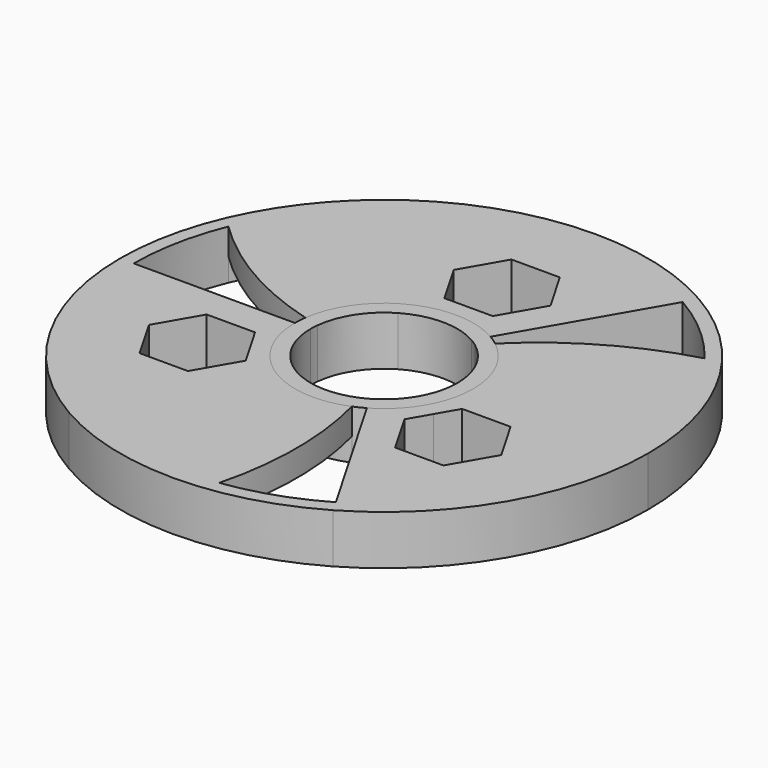
from build123d import *

# Parameters (mm, degrees)
F1_DEPTH = 7.5
F2_DEPTH = 3.25
F3_DEPTH = 25
F4_DEPTH = 7.5
F5_DEPTH = 7.5
F6_DEPTH = 25
F7_DEPTH = 3.5


with BuildPart() as f1:
    # F0 (on Top) → F1 (new body)
    with BuildSketch(Plane.XY):
        with BuildLine():
            Line((37.9261646969, 0), (40, 0))
            ThreePointArc((40, 0), (37.9968389168, 12.4996092872), (32.1879883833, 23.7472820305))
            ThreePointArc((32.1879883833, 23.7472820305), (31.0930850061, 23.4847690882), (30.0043711026, 23.1976654721))
            ThreePointArc((30.0043711026, 23.1976654721), (35.8911179032, 12.2564931476), (37.9261646969, 0))
        make_face()
        with BuildLine():
            ThreePointArc((20, -34.6410161514), (34.6410161514, -20), (40, 0))
            Line((40, 0), (37.9261646969, 0))
            ThreePointArc((37.9261646969, 0), (32.8450220956, -18.9630823485), (18.9630823485, -32.8450220956))
            Line((18.9630823485, -32.8450220956), (20, -34.6410161514))
        make_face()
        with BuildLine():
            ThreePointArc((30.0043711026, 23.1976654721), (31.0930850061, 23.4847690882), (32.1879883833, 23.7472820305))
            ThreePointArc((32.1879883833, 23.7472820305), (26.6564231218, 29.8233986385), (20, 34.6410161514))
            Line((20, 34.6410161514), (18.9630823485, 32.8450220956))
            ThreePointArc((18.9630823485, 32.8450220956), (24.9543733006, 28.5599933787), (30.0043711026, 23.1976654721))
        make_face()
        with BuildLine():
            ThreePointArc((4.4717553176, -39.7492566519), (12.4996092872, -37.9968389168), (20, -34.6410161514))
            Line((20, -34.6410161514), (18.9630823485, -32.8450220956))
            ThreePointArc((18.9630823485, -32.8450220956), (12.2564931476, -35.8911179032), (5.087582056, -37.5833803355))
            ThreePointArc((5.087582056, -37.5833803355), (4.7918641293, -38.6697860415), (4.4717553176, -39.7492566519))
        make_face()
        with BuildLine():
            Line((18.9630823485, 32.8450220956), (20, 34.6410161514))
            ThreePointArc((20, 34.6410161514), (0, 40), (-20, 34.6410161514))
            Line((-20, 34.6410161514), (-18.9630823485, 32.8450220956))
            ThreePointArc((-18.9630823485, 32.8450220956), (0, 37.9261646969), (18.9630823485, 32.8450220956))
        make_face()
        with BuildLine():
            ThreePointArc((-20, -34.6410161514), (-8.1734402782, -39.156032409), (4.4717553176, -39.7492566519))
            ThreePointArc((4.4717553176, -39.7492566519), (4.7918641293, -38.6697860415), (5.087582056, -37.5833803355))
            ThreePointArc((5.087582056, -37.5833803355), (-7.3311245245, -37.2108664482), (-18.9630823485, -32.8450220956))
            Line((-18.9630823485, -32.8450220956), (-20, -34.6410161514))
        make_face()
        with BuildLine():
            Line((-18.9630823485, 32.8450220956), (-20, 34.6410161514))
            ThreePointArc((-20, 34.6410161514), (-29.8233986385, 26.6564231218), (-36.6597437009, 16.0019746214))
            ThreePointArc((-36.6597437009, 16.0019746214), (-35.8849491355, 15.1850169532), (-35.0919531586, 14.3857148634))
            ThreePointArc((-35.0919531586, 14.3857148634), (-28.5599933787, 24.9543733006), (-18.9630823485, 32.8450220956))
        make_face()
        with BuildLine():
            ThreePointArc((-40, 0), (-34.6410161514, -20), (-20, -34.6410161514))
            Line((-20, -34.6410161514), (-18.9630823485, -32.8450220956))
            ThreePointArc((-18.9630823485, -32.8450220956), (-32.8450220956, -18.9630823485), (-37.9261646969, 0))
            Line((-37.9261646969, 0), (-40, 0))
        make_face()
        with BuildLine():
            ThreePointArc((-35.0919531586, 14.3857148634), (-35.8849491355, 15.1850169532), (-36.6597437009, 16.0019746214))
            ThreePointArc((-36.6597437009, 16.0019746214), (-39.156032409, 8.1734402782), (-40, 0))
            Line((-40, 0), (-37.9261646969, 0))
            ThreePointArc((-37.9261646969, 0), (-37.2108664482, 7.3311245245), (-35.0919531586, 14.3857148634))
        make_face()
        with BuildLine():
            ThreePointArc((-37.9261646969, 0), (-32.8450220956, -18.9630823485), (-18.9630823485, -32.8450220956))
            Line((-18.9630823485, -32.8450220956), (-6.7550944326, -11.7001667673))
            ThreePointArc((-6.7550944326, -11.7001667673), (-9.5531461618, -9.5531461618), (-11.7001667673, -6.7550944326))
            ThreePointArc((-11.7001667673, -6.7550944326), (-13.049840343, -3.4966941813), (-13.5101888653, 0))
            Line((-13.5101888653, 0), (-37.9261646969, 0))
        make_face()
        Polygon((-15.6912036375, -4.8259873107), (-13.8581165329, -8.0009873107), (-12.0250294282, -11.1759873107), (-15.6912036375, -17.5259873107), (-23.0235520562, -17.5259873107), (-26.6897262656, -11.1759873107), (-23.0235520562, -4.8259873107), align=None, mode=Mode.SUBTRACT)
        with BuildLine():
            ThreePointArc((-18.9630823485, -32.8450220956), (-7.3311245245, -37.2108664482), (5.087582056, -37.5833803355))
            ThreePointArc((5.087582056, -37.5833803355), (6.6978790363, -25.0460653274), (5.112236707, -12.505608303))
            ThreePointArc((5.112236707, -12.505608303), (-0.9148384522, -13.4791792696), (-6.7550944326, -11.7001667673))
            Line((-6.7550944326, -11.7001667673), (-18.9630823485, -32.8450220956))
        make_face()
        with BuildLine():
            ThreePointArc((5.087582056, -37.5833803355), (12.2564931476, -35.8911179032), (18.9630823485, -32.8450220956))
            Line((18.9630823485, -32.8450220956), (6.7550944326, -11.7001667673))
            ThreePointArc((6.7550944326, -11.7001667673), (5.9473162949, -12.1307308957), (5.112236707, -12.505608303))
            ThreePointArc((5.112236707, -12.505608303), (6.6978790363, -25.0460653274), (5.087582056, -37.5833803355))
        make_face()
        with BuildLine():
            ThreePointArc((18.9630823485, -32.8450220956), (32.8450220956, -18.9630823485), (37.9261646969, 0))
            Line((37.9261646969, 0), (13.5101888653, 0))
            ThreePointArc((13.5101888653, 0), (13.049840343, -3.4966941813), (11.7001667673, -6.7550944326))
            ThreePointArc((11.7001667673, -6.7550944326), (9.5531461618, -9.5531461618), (6.7550944326, -11.7001667673))
            Line((6.7550944326, -11.7001667673), (18.9630823485, -32.8450220956))
        make_face()
        Polygon((12.0250294282, -11.1759873107), (13.8581165329, -8.0009873107), (15.6912036375, -4.8259873107), (23.0235520562, -4.8259873107), (26.6897262656, -11.1759873107), (23.0235520562, -17.5259873107), (15.6912036375, -17.5259873107), align=None, mode=Mode.SUBTRACT)
        with BuildLine():
            ThreePointArc((-11.7001667673, -6.7550944326), (-9.5531461618, -9.5531461618), (-6.7550944326, -11.7001667673))
            Line((-6.7550944326, -11.7001667673), (-5.55625, -9.6237072996))
            ThreePointArc((-5.55625, -9.6237072996), (-7.8577241059, -7.8577241059), (-9.6237072996, -5.55625))
            Line((-9.6237072996, -5.55625), (-11.7001667673, -6.7550944326))
        make_face()
        with BuildLine():
            ThreePointArc((-9.6237072996, -5.55625), (-10.7338507446, -2.8761266387), (-11.1125, 0))
            Line((-11.1125, 0), (-13.5101888653, 0))
            ThreePointArc((-13.5101888653, 0), (-13.049840343, -3.4966941813), (-11.7001667673, -6.7550944326))
            Line((-11.7001667673, -6.7550944326), (-9.6237072996, -5.55625))
        make_face()
        with BuildLine():
            Line((-5.55625, 9.6237072996), (-6.7550944326, 11.7001667673))
            ThreePointArc((-6.7550944326, 11.7001667673), (-11.2158924436, 7.5318629748), (-13.3862928336, 1.8254772931))
            ThreePointArc((-13.3862928336, 1.8254772931), (-12.2185420326, 1.5161003824), (-11.0436569899, 1.2350289634))
            ThreePointArc((-11.0436569899, 1.2350289634), (-9.2995542407, 6.0832513654), (-5.55625, 9.6237072996))
        make_face()
        with BuildLine():
            ThreePointArc((-13.3862928336, 1.8254772931), (-25.0394683565, 6.7224992667), (-35.0919531586, 14.3857148634))
            ThreePointArc((-35.0919531586, 14.3857148634), (-37.2108664482, 7.3311245245), (-37.9261646969, 0))
            Line((-37.9261646969, 0), (-13.5101888653, 0))
            ThreePointArc((-13.5101888653, 0), (-13.4791792696, 0.9148384522), (-13.3862928336, 1.8254772931))
        make_face()
        with BuildLine():
            Line((-6.7550944326, 11.7001667673), (-18.9630823485, 32.8450220956))
            ThreePointArc((-18.9630823485, 32.8450220956), (-28.5599933787, 24.9543733006), (-35.0919531586, 14.3857148634))
            ThreePointArc((-35.0919531586, 14.3857148634), (-25.0394683565, 6.7224992667), (-13.3862928336, 1.8254772931))
            ThreePointArc((-13.3862928336, 1.8254772931), (-11.2158924436, 7.5318629748), (-6.7550944326, 11.7001667673))
        make_face()
        with BuildLine():
            Line((6.7550944326, 11.7001667673), (18.9630823485, 32.8450220956))
            ThreePointArc((18.9630823485, 32.8450220956), (0, 37.9261646969), (-18.9630823485, 32.8450220956))
            Line((-18.9630823485, 32.8450220956), (-6.7550944326, 11.7001667673))
            ThreePointArc((-6.7550944326, 11.7001667673), (0, 13.5101888653), (6.7550944326, 11.7001667673))
        make_face()
        Polygon((7.3323484187, 22.3519746214), (3.6661742094, 16.0019746214), (-3.6661742094, 16.0019746214), (-7.3323484187, 22.3519746214), (-3.6661742094, 28.7019746214), (3.6661742094, 28.7019746214), align=None, mode=Mode.SUBTRACT)
        with BuildLine():
            Line((5.55625, 9.6237072996), (6.7550944326, 11.7001667673))
            ThreePointArc((6.7550944326, 11.7001667673), (0, 13.5101888653), (-6.7550944326, 11.7001667673))
            Line((-6.7550944326, 11.7001667673), (-5.55625, 9.6237072996))
            ThreePointArc((-5.55625, 9.6237072996), (0, 11.1125), (5.55625, 9.6237072996))
        make_face()
        with BuildLine():
            Line((-13.5101888653, 0), (-11.1125, 0))
            ThreePointArc((-11.1125, 0), (-11.095275899, 0.6184730997), (-11.0436569899, 1.2350289634))
            ThreePointArc((-11.0436569899, 1.2350289634), (-12.2185420326, 1.5161003824), (-13.3862928336, 1.8254772931))
            ThreePointArc((-13.3862928336, 1.8254772931), (-13.4791792696, 0.9148384522), (-13.5101888653, 0))
        make_face()
        with BuildLine():
            Line((11.1125, 0), (13.5101888653, 0))
            ThreePointArc((13.5101888653, 0), (12.1307308957, 5.9473162949), (8.2740561267, 10.6801310099))
            ThreePointArc((8.2740561267, 10.6801310099), (7.4222524621, 9.8235176062), (6.5913949516, 8.9465730222))
            ThreePointArc((6.5913949516, 8.9465730222), (9.9180273404, 5.0120245336), (11.1125, 0))
        make_face()
        with BuildLine():
            ThreePointArc((6.5913949516, 8.9465730222), (7.4222524621, 9.8235176062), (8.2740561267, 10.6801310099))
            ThreePointArc((8.2740561267, 10.6801310099), (7.5318629748, 11.2158924436), (6.7550944326, 11.7001667673))
            Line((6.7550944326, 11.7001667673), (5.55625, 9.6237072996))
            ThreePointArc((5.55625, 9.6237072996), (6.0832513654, 9.2995542407), (6.5913949516, 8.9465730222))
        make_face()
        with BuildLine():
            Line((5.55625, -9.6237072996), (6.7550944326, -11.7001667673))
            ThreePointArc((6.7550944326, -11.7001667673), (9.5531461618, -9.5531461618), (11.7001667673, -6.7550944326))
            Line((11.7001667673, -6.7550944326), (9.6237072996, -5.55625))
            ThreePointArc((9.6237072996, -5.55625), (7.8577241059, -7.8577241059), (5.55625, -9.6237072996))
        make_face()
        with BuildLine():
            ThreePointArc((11.7001667673, -6.7550944326), (13.049840343, -3.4966941813), (13.5101888653, 0))
            Line((13.5101888653, 0), (11.1125, 0))
            ThreePointArc((11.1125, 0), (10.7338507446, -2.8761266387), (9.6237072996, -5.55625))
            Line((9.6237072996, -5.55625), (11.7001667673, -6.7550944326))
        make_face()
        with BuildLine():
            ThreePointArc((5.112236707, -12.505608303), (5.9473162949, -12.1307308957), (6.7550944326, -11.7001667673))
            Line((6.7550944326, -11.7001667673), (5.55625, -9.6237072996))
            ThreePointArc((5.55625, -9.6237072996), (5.0120245336, -9.9180273404), (4.4522620383, -10.1816019856))
            ThreePointArc((4.4522620383, -10.1816019856), (4.7962895705, -11.3396179886), (5.112236707, -12.505608303))
        make_face()
        with BuildLine():
            ThreePointArc((-6.7550944326, -11.7001667673), (-0.9148384522, -13.4791792696), (5.112236707, -12.505608303))
            ThreePointArc((5.112236707, -12.505608303), (4.7962895705, -11.3396179886), (4.4522620383, -10.1816019856))
            ThreePointArc((4.4522620383, -10.1816019856), (-0.6184730997, -11.095275899), (-5.55625, -9.6237072996))
            Line((-5.55625, -9.6237072996), (-6.7550944326, -11.7001667673))
        make_face()
        with BuildLine():
            Line((13.5101888653, 0), (37.9261646969, 0))
            ThreePointArc((37.9261646969, 0), (35.8911179032, 12.2564931476), (30.0043711026, 23.1976654721))
            ThreePointArc((30.0043711026, 23.1976654721), (18.3415893202, 18.3235660606), (8.2740561267, 10.6801310099))
            ThreePointArc((8.2740561267, 10.6801310099), (12.1307308957, 5.9473162949), (13.5101888653, 0))
        make_face()
        with BuildLine():
            ThreePointArc((8.2740561267, 10.6801310099), (18.3415893202, 18.3235660606), (30.0043711026, 23.1976654721))
            ThreePointArc((30.0043711026, 23.1976654721), (24.9543733006, 28.5599933787), (18.9630823485, 32.8450220956))
            Line((18.9630823485, 32.8450220956), (6.7550944326, 11.7001667673))
            ThreePointArc((6.7550944326, 11.7001667673), (7.5318629748, 11.2158924436), (8.2740561267, 10.6801310099))
        make_face()
    extrude(amount=F1_DEPTH)

    # F0 (on Top) → F2 (cut)
    with BuildSketch(Plane.XY):
        with BuildLine():
            Line((-18.9630823485, 32.8450220956), (-20, 34.6410161514))
            ThreePointArc((-20, 34.6410161514), (-29.8233986385, 26.6564231218), (-36.6597437009, 16.0019746214))
            ThreePointArc((-36.6597437009, 16.0019746214), (-35.8849491355, 15.1850169532), (-35.0919531586, 14.3857148634))
            ThreePointArc((-35.0919531586, 14.3857148634), (-28.5599933787, 24.9543733006), (-18.9630823485, 32.8450220956))
        make_face()
        with BuildLine():
            ThreePointArc((-20, -34.6410161514), (-8.1734402782, -39.156032409), (4.4717553176, -39.7492566519))
            ThreePointArc((4.4717553176, -39.7492566519), (4.7918641293, -38.6697860415), (5.087582056, -37.5833803355))
            ThreePointArc((5.087582056, -37.5833803355), (-7.3311245245, -37.2108664482), (-18.9630823485, -32.8450220956))
            Line((-18.9630823485, -32.8450220956), (-20, -34.6410161514))
        make_face()
        with BuildLine():
            Line((37.9261646969, 0), (40, 0))
            ThreePointArc((40, 0), (37.9968389168, 12.4996092872), (32.1879883833, 23.7472820305))
            ThreePointArc((32.1879883833, 23.7472820305), (31.0930850061, 23.4847690882), (30.0043711026, 23.1976654721))
            ThreePointArc((30.0043711026, 23.1976654721), (35.8911179032, 12.2564931476), (37.9261646969, 0))
        make_face()
    extrude(amount=F2_DEPTH, mode=Mode.SUBTRACT)

    # F0 (on Top) → F3 (cut)
    with BuildSketch(Plane.XY):
        with BuildLine():
            ThreePointArc((-35.0919531586, 14.3857148634), (-35.8849491355, 15.1850169532), (-36.6597437009, 16.0019746214))
            ThreePointArc((-36.6597437009, 16.0019746214), (-39.156032409, 8.1734402782), (-40, 0))
            Line((-40, 0), (-37.9261646969, 0))
            ThreePointArc((-37.9261646969, 0), (-37.2108664482, 7.3311245245), (-35.0919531586, 14.3857148634))
        make_face()
        with BuildLine():
            ThreePointArc((30.0043711026, 23.1976654721), (31.0930850061, 23.4847690882), (32.1879883833, 23.7472820305))
            ThreePointArc((32.1879883833, 23.7472820305), (26.6564231218, 29.8233986385), (20, 34.6410161514))
            Line((20, 34.6410161514), (18.9630823485, 32.8450220956))
            ThreePointArc((18.9630823485, 32.8450220956), (24.9543733006, 28.5599933787), (30.0043711026, 23.1976654721))
        make_face()
        with BuildLine():
            ThreePointArc((4.4717553176, -39.7492566519), (12.4996092872, -37.9968389168), (20, -34.6410161514))
            Line((20, -34.6410161514), (18.9630823485, -32.8450220956))
            ThreePointArc((18.9630823485, -32.8450220956), (12.2564931476, -35.8911179032), (5.087582056, -37.5833803355))
            ThreePointArc((5.087582056, -37.5833803355), (4.7918641293, -38.6697860415), (4.4717553176, -39.7492566519))
        make_face()
    extrude(amount=F3_DEPTH, mode=Mode.SUBTRACT)

    # F0 (on Top) → F5 (join)
    with BuildSketch(Plane.XY):
        with BuildLine():
            ThreePointArc((-35.0919531586, 14.3857148634), (-35.8849491355, 15.1850169532), (-36.6597437009, 16.0019746214))
            ThreePointArc((-36.6597437009, 16.0019746214), (-39.156032409, 8.1734402782), (-40, 0))
            Line((-40, 0), (-37.9261646969, 0))
            ThreePointArc((-37.9261646969, 0), (-37.2108664482, 7.3311245245), (-35.0919531586, 14.3857148634))
        make_face()
        with BuildLine():
            Line((-18.9630823485, 32.8450220956), (-20, 34.6410161514))
            ThreePointArc((-20, 34.6410161514), (-29.8233986385, 26.6564231218), (-36.6597437009, 16.0019746214))
            ThreePointArc((-36.6597437009, 16.0019746214), (-35.8849491355, 15.1850169532), (-35.0919531586, 14.3857148634))
            ThreePointArc((-35.0919531586, 14.3857148634), (-28.5599933787, 24.9543733006), (-18.9630823485, 32.8450220956))
        make_face()
        with BuildLine():
            ThreePointArc((-40, 0), (-34.6410161514, -20), (-20, -34.6410161514))
            Line((-20, -34.6410161514), (-18.9630823485, -32.8450220956))
            ThreePointArc((-18.9630823485, -32.8450220956), (-32.8450220956, -18.9630823485), (-37.9261646969, 0))
            Line((-37.9261646969, 0), (-40, 0))
        make_face()
        with BuildLine():
            ThreePointArc((-20, -34.6410161514), (-8.1734402782, -39.156032409), (4.4717553176, -39.7492566519))
            ThreePointArc((4.4717553176, -39.7492566519), (4.7918641293, -38.6697860415), (5.087582056, -37.5833803355))
            ThreePointArc((5.087582056, -37.5833803355), (-7.3311245245, -37.2108664482), (-18.9630823485, -32.8450220956))
            Line((-18.9630823485, -32.8450220956), (-20, -34.6410161514))
        make_face()
        with BuildLine():
            ThreePointArc((4.4717553176, -39.7492566519), (12.4996092872, -37.9968389168), (20, -34.6410161514))
            Line((20, -34.6410161514), (18.9630823485, -32.8450220956))
            ThreePointArc((18.9630823485, -32.8450220956), (12.2564931476, -35.8911179032), (5.087582056, -37.5833803355))
            ThreePointArc((5.087582056, -37.5833803355), (4.7918641293, -38.6697860415), (4.4717553176, -39.7492566519))
        make_face()
        with BuildLine():
            ThreePointArc((20, -34.6410161514), (34.6410161514, -20), (40, 0))
            Line((40, 0), (37.9261646969, 0))
            ThreePointArc((37.9261646969, 0), (32.8450220956, -18.9630823485), (18.9630823485, -32.8450220956))
            Line((18.9630823485, -32.8450220956), (20, -34.6410161514))
        make_face()
        with BuildLine():
            Line((37.9261646969, 0), (40, 0))
            ThreePointArc((40, 0), (37.9968389168, 12.4996092872), (32.1879883833, 23.7472820305))
            ThreePointArc((32.1879883833, 23.7472820305), (31.0930850061, 23.4847690882), (30.0043711026, 23.1976654721))
            ThreePointArc((30.0043711026, 23.1976654721), (35.8911179032, 12.2564931476), (37.9261646969, 0))
        make_face()
        with BuildLine():
            ThreePointArc((30.0043711026, 23.1976654721), (31.0930850061, 23.4847690882), (32.1879883833, 23.7472820305))
            ThreePointArc((32.1879883833, 23.7472820305), (26.6564231218, 29.8233986385), (20, 34.6410161514))
            Line((20, 34.6410161514), (18.9630823485, 32.8450220956))
            ThreePointArc((18.9630823485, 32.8450220956), (24.9543733006, 28.5599933787), (30.0043711026, 23.1976654721))
        make_face()
        with BuildLine():
            Line((18.9630823485, 32.8450220956), (20, 34.6410161514))
            ThreePointArc((20, 34.6410161514), (0, 40), (-20, 34.6410161514))
            Line((-20, 34.6410161514), (-18.9630823485, 32.8450220956))
            ThreePointArc((-18.9630823485, 32.8450220956), (0, 37.9261646969), (18.9630823485, 32.8450220956))
        make_face()
    extrude(amount=F5_DEPTH)

    # F0 (on Top) → F6 (cut)
    with BuildSketch(Plane.XY):
        with BuildLine():
            ThreePointArc((5.087582056, -37.5833803355), (12.2564931476, -35.8911179032), (18.9630823485, -32.8450220956))
            Line((18.9630823485, -32.8450220956), (6.7550944326, -11.7001667673))
            ThreePointArc((6.7550944326, -11.7001667673), (5.9473162949, -12.1307308957), (5.112236707, -12.505608303))
            ThreePointArc((5.112236707, -12.505608303), (6.6978790363, -25.0460653274), (5.087582056, -37.5833803355))
        make_face()
        with BuildLine():
            ThreePointArc((-13.3862928336, 1.8254772931), (-25.0394683565, 6.7224992667), (-35.0919531586, 14.3857148634))
            ThreePointArc((-35.0919531586, 14.3857148634), (-37.2108664482, 7.3311245245), (-37.9261646969, 0))
            Line((-37.9261646969, 0), (-13.5101888653, 0))
            ThreePointArc((-13.5101888653, 0), (-13.4791792696, 0.9148384522), (-13.3862928336, 1.8254772931))
        make_face()
        with BuildLine():
            ThreePointArc((8.2740561267, 10.6801310099), (18.3415893202, 18.3235660606), (30.0043711026, 23.1976654721))
            ThreePointArc((30.0043711026, 23.1976654721), (24.9543733006, 28.5599933787), (18.9630823485, 32.8450220956))
            Line((18.9630823485, 32.8450220956), (6.7550944326, 11.7001667673))
            ThreePointArc((6.7550944326, 11.7001667673), (7.5318629748, 11.2158924436), (8.2740561267, 10.6801310099))
        make_face()
    extrude(amount=F6_DEPTH, mode=Mode.SUBTRACT)

    # F0 (on Top) → F7 (cut)
    with BuildSketch(Plane.XY):
        with BuildLine():
            Line((-6.7550944326, 11.7001667673), (-18.9630823485, 32.8450220956))
            ThreePointArc((-18.9630823485, 32.8450220956), (-28.5599933787, 24.9543733006), (-35.0919531586, 14.3857148634))
            ThreePointArc((-35.0919531586, 14.3857148634), (-25.0394683565, 6.7224992667), (-13.3862928336, 1.8254772931))
            ThreePointArc((-13.3862928336, 1.8254772931), (-11.2158924436, 7.5318629748), (-6.7550944326, 11.7001667673))
        make_face()
        with BuildLine():
            Line((13.5101888653, 0), (37.9261646969, 0))
            ThreePointArc((37.9261646969, 0), (35.8911179032, 12.2564931476), (30.0043711026, 23.1976654721))
            ThreePointArc((30.0043711026, 23.1976654721), (18.3415893202, 18.3235660606), (8.2740561267, 10.6801310099))
            ThreePointArc((8.2740561267, 10.6801310099), (12.1307308957, 5.9473162949), (13.5101888653, 0))
        make_face()
        with BuildLine():
            ThreePointArc((-18.9630823485, -32.8450220956), (-7.3311245245, -37.2108664482), (5.087582056, -37.5833803355))
            ThreePointArc((5.087582056, -37.5833803355), (6.6978790363, -25.0460653274), (5.112236707, -12.505608303))
            ThreePointArc((5.112236707, -12.505608303), (-0.9148384522, -13.4791792696), (-6.7550944326, -11.7001667673))
            Line((-6.7550944326, -11.7001667673), (-18.9630823485, -32.8450220956))
        make_face()
    extrude(amount=F7_DEPTH, mode=Mode.SUBTRACT)


with BuildPart() as f4:
    # F0 (on Top) → F4 (new body)
    with BuildSketch(Plane.XY):
        with BuildLine():
            ThreePointArc((-9.6237072996, -5.55625), (-10.7338507446, -2.8761266387), (-11.1125, 0))
            Line((-11.1125, 0), (-13.5101888653, 0))
            ThreePointArc((-13.5101888653, 0), (-13.049840343, -3.4966941813), (-11.7001667673, -6.7550944326))
            Line((-11.7001667673, -6.7550944326), (-9.6237072996, -5.55625))
        make_face()
        with BuildLine():
            Line((-13.5101888653, 0), (-11.1125, 0))
            ThreePointArc((-11.1125, 0), (-11.095275899, 0.6184730997), (-11.0436569899, 1.2350289634))
            ThreePointArc((-11.0436569899, 1.2350289634), (-12.2185420326, 1.5161003824), (-13.3862928336, 1.8254772931))
            ThreePointArc((-13.3862928336, 1.8254772931), (-13.4791792696, 0.9148384522), (-13.5101888653, 0))
        make_face()
        with BuildLine():
            Line((-5.55625, 9.6237072996), (-6.7550944326, 11.7001667673))
            ThreePointArc((-6.7550944326, 11.7001667673), (-11.2158924436, 7.5318629748), (-13.3862928336, 1.8254772931))
            ThreePointArc((-13.3862928336, 1.8254772931), (-12.2185420326, 1.5161003824), (-11.0436569899, 1.2350289634))
            ThreePointArc((-11.0436569899, 1.2350289634), (-9.2995542407, 6.0832513654), (-5.55625, 9.6237072996))
        make_face()
        with BuildLine():
            Line((5.55625, 9.6237072996), (6.7550944326, 11.7001667673))
            ThreePointArc((6.7550944326, 11.7001667673), (0, 13.5101888653), (-6.7550944326, 11.7001667673))
            Line((-6.7550944326, 11.7001667673), (-5.55625, 9.6237072996))
            ThreePointArc((-5.55625, 9.6237072996), (0, 11.1125), (5.55625, 9.6237072996))
        make_face()
        with BuildLine():
            ThreePointArc((6.5913949516, 8.9465730222), (7.4222524621, 9.8235176062), (8.2740561267, 10.6801310099))
            ThreePointArc((8.2740561267, 10.6801310099), (7.5318629748, 11.2158924436), (6.7550944326, 11.7001667673))
            Line((6.7550944326, 11.7001667673), (5.55625, 9.6237072996))
            ThreePointArc((5.55625, 9.6237072996), (6.0832513654, 9.2995542407), (6.5913949516, 8.9465730222))
        make_face()
        with BuildLine():
            Line((11.1125, 0), (13.5101888653, 0))
            ThreePointArc((13.5101888653, 0), (12.1307308957, 5.9473162949), (8.2740561267, 10.6801310099))
            ThreePointArc((8.2740561267, 10.6801310099), (7.4222524621, 9.8235176062), (6.5913949516, 8.9465730222))
            ThreePointArc((6.5913949516, 8.9465730222), (9.9180273404, 5.0120245336), (11.1125, 0))
        make_face()
        with BuildLine():
            ThreePointArc((11.7001667673, -6.7550944326), (13.049840343, -3.4966941813), (13.5101888653, 0))
            Line((13.5101888653, 0), (11.1125, 0))
            ThreePointArc((11.1125, 0), (10.7338507446, -2.8761266387), (9.6237072996, -5.55625))
            Line((9.6237072996, -5.55625), (11.7001667673, -6.7550944326))
        make_face()
        with BuildLine():
            ThreePointArc((5.112236707, -12.505608303), (5.9473162949, -12.1307308957), (6.7550944326, -11.7001667673))
            Line((6.7550944326, -11.7001667673), (5.55625, -9.6237072996))
            ThreePointArc((5.55625, -9.6237072996), (5.0120245336, -9.9180273404), (4.4522620383, -10.1816019856))
            ThreePointArc((4.4522620383, -10.1816019856), (4.7962895705, -11.3396179886), (5.112236707, -12.505608303))
        make_face()
        with BuildLine():
            Line((5.55625, -9.6237072996), (6.7550944326, -11.7001667673))
            ThreePointArc((6.7550944326, -11.7001667673), (9.5531461618, -9.5531461618), (11.7001667673, -6.7550944326))
            Line((11.7001667673, -6.7550944326), (9.6237072996, -5.55625))
            ThreePointArc((9.6237072996, -5.55625), (7.8577241059, -7.8577241059), (5.55625, -9.6237072996))
        make_face()
        with BuildLine():
            ThreePointArc((-6.7550944326, -11.7001667673), (-0.9148384522, -13.4791792696), (5.112236707, -12.505608303))
            ThreePointArc((5.112236707, -12.505608303), (4.7962895705, -11.3396179886), (4.4522620383, -10.1816019856))
            ThreePointArc((4.4522620383, -10.1816019856), (-0.6184730997, -11.095275899), (-5.55625, -9.6237072996))
            Line((-5.55625, -9.6237072996), (-6.7550944326, -11.7001667673))
        make_face()
        with BuildLine():
            ThreePointArc((-11.7001667673, -6.7550944326), (-9.5531461618, -9.5531461618), (-6.7550944326, -11.7001667673))
            Line((-6.7550944326, -11.7001667673), (-5.55625, -9.6237072996))
            ThreePointArc((-5.55625, -9.6237072996), (-7.8577241059, -7.8577241059), (-9.6237072996, -5.55625))
            Line((-9.6237072996, -5.55625), (-11.7001667673, -6.7550944326))
        make_face()
    extrude(amount=F4_DEPTH)


solid = Compound([f1.part, f4.part])
